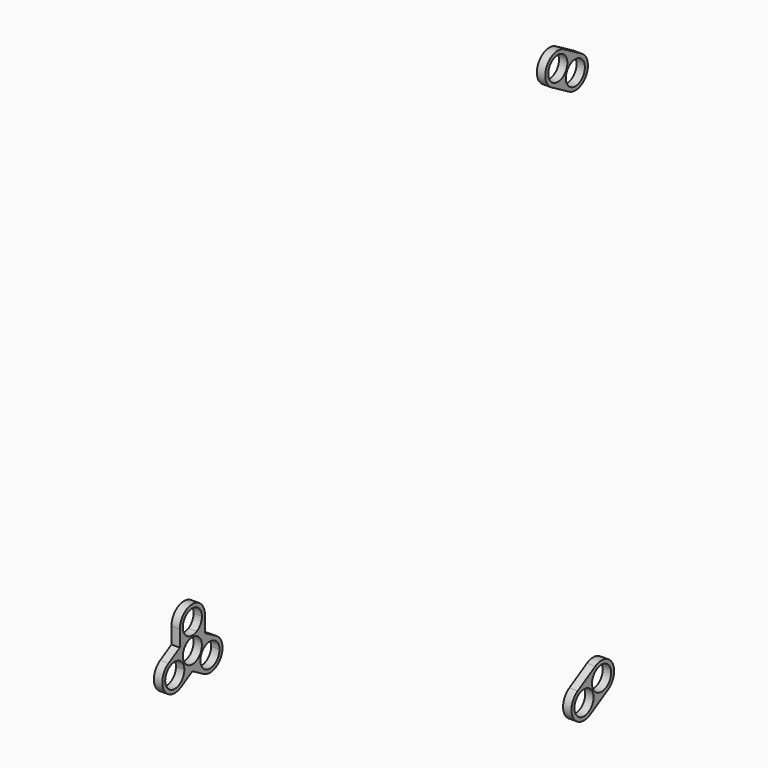
from build123d import *

# Parameters (mm, degrees)
F0_R     = 11.425
F1_DEPTH = 8


with BuildPart() as f1:
    # F0 (on Right) → F1 (new body)
    with BuildSketch(Plane.YZ):
        with BuildLine():
            ThreePointArc((-310.9258660243, -21.9026233512), (-311.7330942065, -1.9778892959), (-294.3306152344, -11.7144374592))
            ThreePointArc((-294.3306152344, -11.7144374592), (-296.019067071, -17.6919164314), (-300.5853644445, -21.9026233512))
            ThreePointArc((-300.5853644445, -21.9026233512), (-299.3970730296, -22.3977931463), (-298.2556152344, -22.9930273141))
            Line((-298.2556152344, -22.9930273141), (-290.7556152344, -27.323154333))
            Line((-290.7556152344, -27.323154333), (-290.7556152344, -11.7144374592))
            ThreePointArc((-290.7556152344, -11.7144374592), (-305.7556152344, 3.2855625408), (-320.7556152344, -11.7144374592))
            Line((-320.7556152344, -11.7144374592), (-320.7556152344, -27.323154333))
            Line((-320.7556152344, -27.323154333), (-313.2556152344, -22.9930273141))
            ThreePointArc((-313.2556152344, -22.9930273141), (-312.1141574392, -22.3977931463), (-310.9258660243, -21.9026233512))
        make_face()
        with BuildLine():
            ThreePointArc((-320.7556152344, -35.9834083708), (-318.7459962911, -28.4834083708), (-313.2556152344, -22.9930273141))
            Line((-313.2556152344, -22.9930273141), (-320.7556152344, -27.323154333))
            Line((-320.7556152344, -27.323154333), (-320.7556152344, -35.9834083708))
        make_face()
        with BuildLine():
            Line((-290.7556152344, -27.323154333), (-298.2556152344, -22.9930273141))
            ThreePointArc((-298.2556152344, -22.9930273141), (-292.7652341776, -28.4834083708), (-290.7556152344, -35.9834083708))
            Line((-290.7556152344, -35.9834083708), (-290.7556152344, -27.323154333))
        make_face()
        with BuildLine():
            Line((-320.7556152344, -35.9834083708), (-320.7556152344, -27.323154333))
            Line((-320.7556152344, -27.323154333), (-334.2731605676, -35.1275127699))
            ThreePointArc((-334.2731605676, -35.1275127699), (-339.7635416243, -55.6178938267), (-319.2731605676, -61.1082748834))
            Line((-319.2731605676, -61.1082748834), (-305.7556152344, -53.3039164465))
            Line((-305.7556152344, -53.3039164465), (-313.2556152344, -48.9737894276))
            ThreePointArc((-313.2556152344, -48.9737894276), (-314.3418320425, -48.2828750635), (-315.3648073717, -47.5013694086))
            ThreePointArc((-315.3648073717, -47.5013694086), (-315.3523230268, -47.8095192678), (-315.3481605676, -48.1178938267))
            ThreePointArc((-315.3481605676, -48.1178938267), (-336.8180832897, -53.5612523952), (-320.5350581616, -38.5462323527))
            ThreePointArc((-320.5350581616, -38.5462323527), (-320.7003742473, -37.2695569027), (-320.7556152344, -35.9834083708))
        make_face()
        with BuildLine():
            Line((-290.7556152344, -27.323154333), (-290.7556152344, -35.9834083708))
            ThreePointArc((-290.7556152344, -35.9834083708), (-290.8108562215, -37.2695569027), (-290.9761723072, -38.5462323527))
            ThreePointArc((-290.9761723072, -38.5462323527), (-279.2947113326, -38.0729711045), (-273.3130699012, -48.1178938267))
            ThreePointArc((-273.3130699012, -48.1178938267), (-285.04644446, -59.5387313674), (-296.1464230971, -47.5013694086))
            ThreePointArc((-296.1464230971, -47.5013694086), (-297.1693984263, -48.2828750635), (-298.2556152344, -48.9737894276))
            Line((-298.2556152344, -48.9737894276), (-305.7556152344, -53.3039164465))
            Line((-305.7556152344, -53.3039164465), (-292.2380699012, -61.1082748834))
            ThreePointArc((-292.2380699012, -61.1082748834), (-271.7476888444, -55.6178938267), (-277.2380699012, -35.1275127699))
            Line((-277.2380699012, -35.1275127699), (-290.7556152344, -27.323154333))
        make_face()
        with BuildLine():
            Line((-313.2556152344, -48.9737894276), (-305.7556152344, -53.3039164465))
            Line((-305.7556152344, -53.3039164465), (-298.2556152344, -48.9737894276))
            ThreePointArc((-298.2556152344, -48.9737894276), (-305.7556152344, -50.9834083708), (-313.2556152344, -48.9737894276))
        make_face()
        with BuildLine():
            ThreePointArc((-300.5853644445, -21.9026233512), (-305.7556152344, -23.1394374592), (-310.9258660243, -21.9026233512))
            ThreePointArc((-310.9258660243, -21.9026233512), (-312.1141574392, -22.3977931463), (-313.2556152344, -22.9930273141))
            ThreePointArc((-313.2556152344, -22.9930273141), (-318.7459962911, -28.4834083708), (-320.7556152344, -35.9834083708))
            ThreePointArc((-320.7556152344, -35.9834083708), (-320.7003742473, -37.2695569027), (-320.5350581616, -38.5462323527))
            ThreePointArc((-320.5350581616, -38.5462323527), (-316.8788203293, -42.4053938267), (-315.3648073717, -47.5013694086))
            ThreePointArc((-315.3648073717, -47.5013694086), (-314.3418320425, -48.2828750635), (-313.2556152344, -48.9737894276))
            ThreePointArc((-313.2556152344, -48.9737894276), (-305.7556152344, -50.9834083708), (-298.2556152344, -48.9737894276))
            ThreePointArc((-298.2556152344, -48.9737894276), (-297.1693984263, -48.2828750635), (-296.1464230971, -47.5013694086))
            ThreePointArc((-296.1464230971, -47.5013694086), (-294.6324101394, -42.4053938267), (-290.9761723072, -38.5462323527))
            ThreePointArc((-290.9761723072, -38.5462323527), (-290.8108562215, -37.2695569027), (-290.7556152344, -35.9834083708))
            ThreePointArc((-290.7556152344, -35.9834083708), (-292.7652341776, -28.4834083708), (-298.2556152344, -22.9930273141))
            ThreePointArc((-298.2556152344, -22.9930273141), (-299.3970730296, -22.3977931463), (-300.5853644445, -21.9026233512))
        make_face()
        with Locations((-305.7556152344, -35.9834083708)):
            Circle(F0_R, mode=Mode.SUBTRACT)
    extrude(amount=F1_DEPTH)


with BuildPart() as f1b:
    # F0 (on Right) → F1, piece 2 (new body)
    with BuildSketch(Plane.YZ):
        with BuildLine():
            ThreePointArc((154.8773395229, -257.0971257854), (149.3869584661, -277.5875068422), (169.8773395229, -283.077887899))
            Line((169.8773395229, -283.077887899), (190.8948848561, -270.9434024432))
            ThreePointArc((190.8948848561, -270.9434024432), (196.3852659129, -250.4530213864), (175.8948848561, -244.9626403296))
            Line((175.8948848561, -244.9626403296), (154.8773395229, -257.0971257854))
        make_face()
        with Locations((162.3773395229, -270.0875068422)):
            Circle(F0_R, mode=Mode.SUBTRACT)
        with Locations((183.3948848561, -257.9530213864)):
            Circle(F0_R, mode=Mode.SUBTRACT)
    extrude(amount=F1_DEPTH)


with BuildPart() as f1c:
    # F0 (on Right) → F1, piece 3 (new body)
    with BuildSketch(Plane.YZ):
        with BuildLine():
            ThreePointArc((144.5685038837, 251.523677961), (165.0588849405, 257.0140590178), (159.5685038837, 277.5044400745))
            Line((159.5685038837, 277.5044400745), (138.5509585505, 289.6389255303))
            ThreePointArc((138.5509585505, 289.6389255303), (118.0605774938, 284.1485444736), (123.5509585505, 263.6581634168))
            Line((123.5509585505, 263.6581634168), (144.5685038837, 251.523677961))
        make_face()
        with Locations((152.0685038837, 264.5140590178)):
            Circle(F0_R, mode=Mode.SUBTRACT)
        with Locations((131.0509585505, 276.6485444736)):
            Circle(F0_R, mode=Mode.SUBTRACT)
    extrude(amount=F1_DEPTH)


solid = Compound([f1.part, f1b.part, f1c.part])
